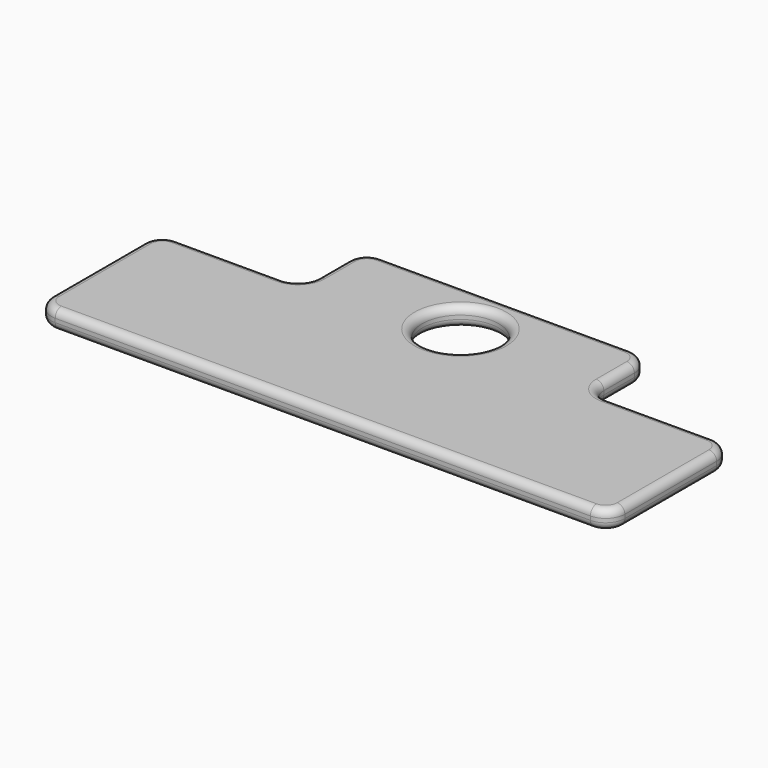
from build123d import *

# Parameters (mm, degrees)
F0_R     = 10
F1_DEPTH = 5
F2_R     = 2


with BuildPart() as f1:
    # F0 (on Top) → F1 (new body)
    with BuildSketch(Plane.XY):
        with BuildLine():
            Line((-42.5, 40), (-70, 40))
            ThreePointArc((-70, 40), (-73.535534, 38.535534), (-75, 35))
            Line((-75, 35), (-75, 5))
            ThreePointArc((-75, 5), (-73.535534, 1.464466), (-70, 0))
            Line((-70, 0), (70, 0))
            ThreePointArc((70, 0), (73.535534, 1.464466), (75, 5))
            Line((75, 5), (75, 35))
            ThreePointArc((75, 35), (73.535534, 38.535534), (70, 40))
            Line((70, 40), (42.5, 40))
            ThreePointArc((42.5, 40), (38.964466, 41.464466), (37.5, 45))
            Line((37.5, 45), (37.5, 55))
            ThreePointArc((37.5, 55), (36.035534, 58.535534), (32.5, 60))
            Line((32.5, 60), (-32.5, 60))
            ThreePointArc((-32.5, 60), (-36.035534, 58.535534), (-37.5, 55))
            Line((-37.5, 55), (-37.5, 45))
            ThreePointArc((-37.5, 45), (-38.964466, 41.464466), (-42.5, 40))
        make_face()
        with Locations((0, 45)):
            Circle(F0_R, mode=Mode.SUBTRACT)
    extrude(amount=F1_DEPTH)

    # F2
    f2_edges = [f1.edges().sort_by_distance(p)[0] for p in [
        (0, 0, 5),
        (0, 0, 0),
        (-10, 45, 5),
        (-10, 45, 0),
    ]]
    fillet(f2_edges, radius=F2_R)


solid = f1.part
